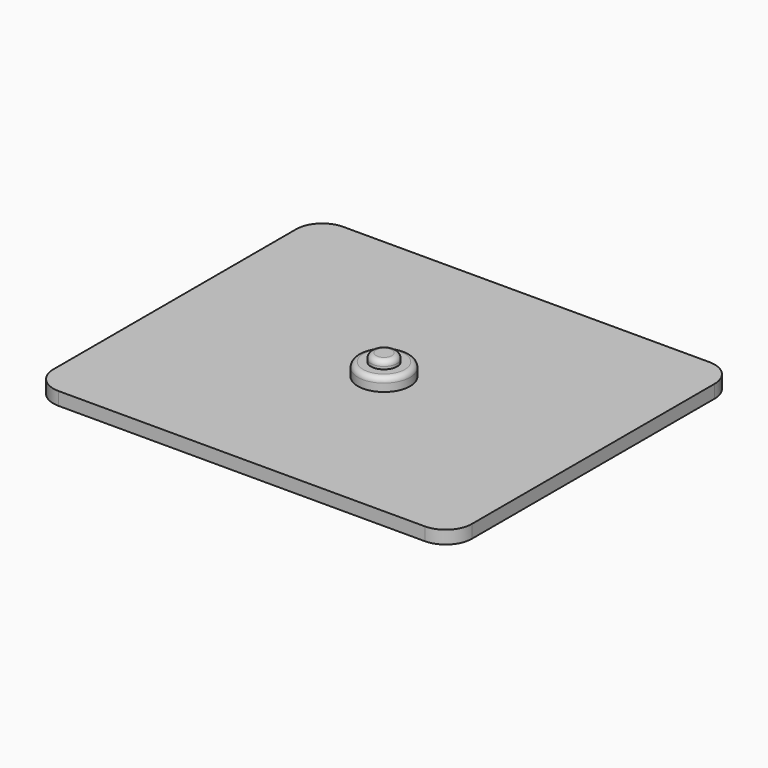
from build123d import *

# Parameters (mm, degrees)
F1_DEPTH = 1.27
F2_R     = 2.54
F3_DEPTH = 1.27
F4_R     = 1.27
F5_DEPTH = 0.762
F6_R     = 0.508


with BuildPart() as f1:
    # F0 (on Top) → F1 (new body)
    with BuildSketch(Plane.XY):
        with BuildLine():
            ThreePointArc((20.32, 14.732), (19.576051, 16.528051), (17.78, 17.272))
            Line((17.78, 17.272), (-17.78, 17.272))
            ThreePointArc((-17.78, 17.272), (-19.576051, 16.528051), (-20.32, 14.732))
            Line((-20.32, 14.732), (-20.32, -14.732))
            ThreePointArc((-20.32, -14.732), (-19.576051, -16.528051), (-17.78, -17.272))
            Line((-17.78, -17.272), (17.78, -17.272))
            ThreePointArc((17.78, -17.272), (19.576051, -16.528051), (20.32, -14.732))
            Line((20.32, -14.732), (20.32, 14.732))
        make_face()
    extrude(amount=F1_DEPTH)

    # F2 (on face) → F3 (join)
    with BuildSketch(Plane.XY.offset(1.27)):
        Circle(F2_R)
    extrude(amount=F3_DEPTH)

    # F4 (on face) → F5 (join)
    with BuildSketch(Plane.XY.offset(2.54)):
        Circle(F4_R)
    extrude(amount=F5_DEPTH)

    # F6
    f6_edges = [f1.edges().sort_by_distance(p)[0] for p in [
        (-2.54, 0, 2.54),
        (-1.27, 0, 3.302),
    ]]
    fillet(f6_edges, radius=F6_R)


solid = f1.part
